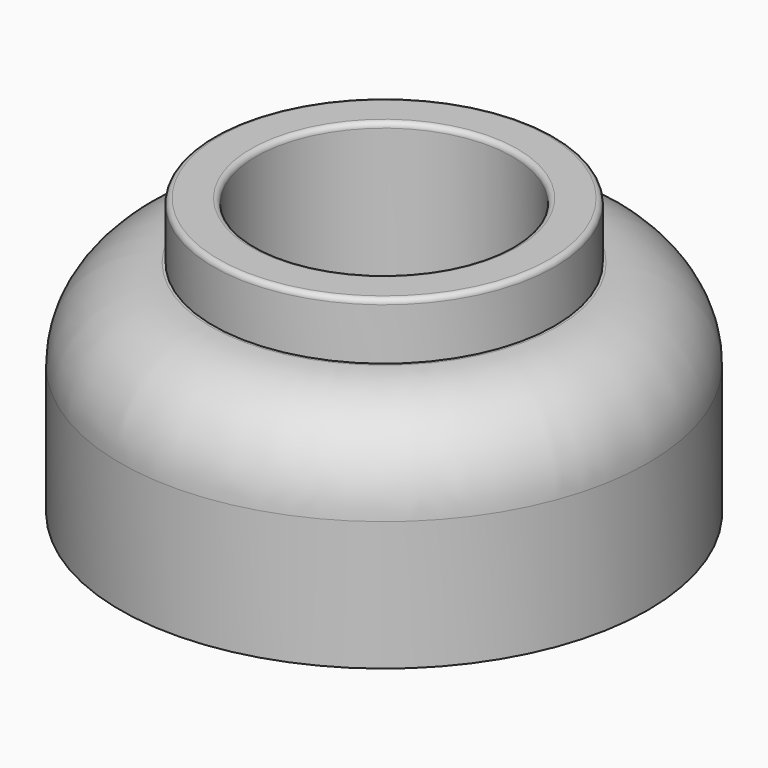
from build123d import *

# Parameters (mm, degrees)
F0_R     = 51
F1_DEPTH = 42.5
F2_R     = 17.5
F3_R     = 5
F4_DEPTH = 30
F5_R     = 33
F6_DEPTH = 11
F7_R     = 1
F8_R     = 24.75
F9_DEPTH = 30
F10_R    = 1


with BuildPart() as f1:
    # F0 (on Top) → F1 (new body)
    with BuildSketch(Plane.XY):
        Circle(F0_R)
    extrude(amount=F1_DEPTH)

    # F2
    f2_edges = [f1.edges().sort_by_distance(p)[0] for p in [
        (-51, 0, 42.5),
    ]]
    fillet(f2_edges, radius=F2_R)

    # F3 (on Top) → F4 (cut)
    with BuildSketch(Plane.XY):
        with Locations((-30.3108891325, -17.5)):
            Circle(F3_R)
        with BuildLine():
            ThreePointArc((5, -35), (3.5355339059, -31.4644660941), (0, -30))
            ThreePointArc((0, -30), (-3.5355339059, -38.5355339059), (5, -35))
        make_face()
        with Locations((30.3108891325, -17.5)):
            Circle(F3_R)
        with Locations((30.3108891325, 17.5)):
            Circle(F3_R)
        with BuildLine():
            ThreePointArc((0, -5), (3.5355339059, -3.5355339059), (5, 0))
            ThreePointArc((5, 0), (-3.5355339059, 3.5355339059), (0, -5))
        make_face()
        with Locations((0, 35)):
            Circle(F3_R)
        with Locations((-30.3108891325, 17.5)):
            Circle(F3_R)
    extrude(amount=F4_DEPTH, mode=Mode.SUBTRACT)

    # F5 (on face) → F6 (join)
    with BuildSketch(Plane.XY.offset(42.5)):
        Circle(F5_R)
    extrude(amount=F6_DEPTH)

    # F7
    f7_edges = [f1.edges().sort_by_distance(p)[0] for p in [
        (-33, 0, 53.5),
    ]]
    fillet(f7_edges, radius=F7_R)

    # F8 (on face) → F9 (cut)
    with BuildSketch(Plane.XY.offset(53.5)):
        Circle(F8_R)
    extrude(amount=-F9_DEPTH, mode=Mode.SUBTRACT)

    # F10
    f10_edges = [f1.edges().sort_by_distance(p)[0] for p in [
        (-32, 0, 53.5),
        (-24.75, 0, 53.5),
    ]]
    fillet(f10_edges, radius=F10_R)


solid = f1.part
